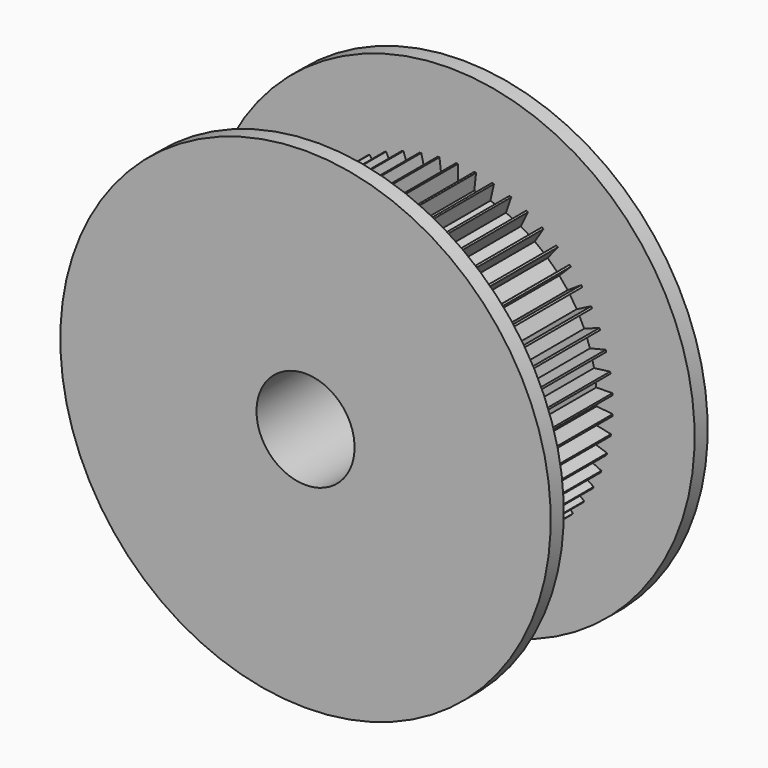
from build123d import *

# Parameters (mm, degrees)
F3_DEPTH = 10
F4_R     = 3
F5_DEPTH = 12


with BuildPart() as f1:
    # F0 (on Right) → F1 (revolve)
    with BuildSketch(Plane.YZ):
        Polygon((-6, -7.5), (6, -7.5), (6, 7.5), (5, 7.5), (5, 2.5), (-5, 2.5), (-5, 7.5), (-6, 7.5), align=None)
    revolve(axis=Axis((0, 0, -7.5), (0, -1, 0)))

    # F2 (on face) → F3 (cut)
    with BuildSketch(Plane(origin=(0, -5, 0), x_dir=(-1, 0, 0), z_dir=(0, 1, 0))):
        with BuildLine():
            ThreePointArc((9.851054434, -9.2195134598), (9.9251701754, -8.7210638759), (9.9740814304, -8.2195134598))
            Line((9.9740814304, -8.2195134598), (8.9814957129, -8.2019506813))
            Line((8.9814957129, -8.2019506813), (8.8838106028, -8.9959642954))
            Line((8.8838106028, -8.9959642954), (9.851054434, -9.2195134598))
        make_face()
        with BuildLine():
            Line((8.995445925, -7.9918867859), (9.9816374951, -8.1057333713))
            ThreePointArc((9.9816374951, -8.1057333713), (9.9994785657, -7.6021196037), (9.9919264475, -7.0982465082))
            Line((9.9919264475, -7.0982465082), (9.0036154933, -7.1919285007))
            Line((9.0036154933, -7.1919285007), (8.995445925, -7.9918867859))
        make_face()
        with BuildLine():
            Line((8.9939582954, -6.9816235147), (9.9866956732, -6.9843358342))
            ThreePointArc((9.9866956732, -6.9843358342), (9.9480377113, -6.4818911181), (9.884117192, -5.9820318399))
            Line((9.884117192, -5.9820318399), (8.9125095849, -6.1857804978))
            Line((8.9125095849, -6.1857804978), (8.9939582954, -6.9816235147))
        make_face()
        with BuildLine():
            Line((8.8793664218, -5.9778791286), (9.8661653587, -5.8694230732))
            ThreePointArc((9.8661653587, -5.8694230732), (9.7714945106, -5.3744659425), (9.6520094279, -4.8849065019))
            Line((9.6520094279, -4.8849065019), (8.7093236972, -5.1961595678))
            Line((8.7093236972, -5.1961595678), (8.8793664218, -5.9778791286))
        make_face()
        with BuildLine():
            Line((8.6531113636, -4.9932762956), (9.6215622904, -4.7750157632))
            ThreePointArc((9.6215622904, -4.7750157632), (9.4720690969, -4.2937705909), (9.298522045, -3.820667482))
            Line((9.298522045, -3.820667482), (8.3966130108, -4.2355107679))
            Line((8.3966130108, -4.2355107679), (8.6531113636, -4.9932762956))
        make_face()
        with BuildLine():
            Line((8.3180384092, -4.0401969677), (9.2559624938, -3.7148767109))
            ThreePointArc((9.2559624938, -3.7148767109), (9.0535269185, -3.2533954344), (8.8281003523, -2.8026982033))
            Line((8.8281003523, -2.8026982033), (7.978310044, -3.3159148142))
            Line((7.978310044, -3.3159148142), (8.3180384092, -4.0401969677))
        make_face()
        with BuildLine():
            Line((7.8783612957, -3.1306266703), (8.7739635984, -2.7023377803))
            ThreePointArc((8.7739635984, -2.7023377803), (8.5211313861, -2.2664237942), (8.2466601755, -1.8438002202))
            Line((8.2466601755, -1.8438002202), (7.4596751992, -2.4489361594))
            Line((7.4596751992, -2.4489361594), (7.8783612957, -3.1306266703))
        make_face()
        with BuildLine():
            Line((7.3396092177, -2.2760037776), (8.1816270199, -1.7501322357))
            ThreePointArc((8.1816270199, -1.7501322357), (7.8815776824, -1.3452674115), (7.5615134622, -0.956032231))
            Line((7.5615134622, -0.956032231), (6.8472306106, -1.645477563))
            Line((6.8472306106, -1.645477563), (7.3396092177, -2.2760037776))
        make_face()
        with BuildLine():
            Line((6.7085572953, -1.4870756685), (7.4864017346, -0.8702346144))
            ThreePointArc((7.4864017346, -0.8702346144), (7.1429085664, -0.5015103621), (6.7812763297, -0.1505584335))
            Line((6.7812763297, -0.1505584335), (6.1486781242, -0.9156429832))
            Line((6.1486781242, -0.9156429832), (6.7085572953, -1.4870756685))
        make_face()
        with BuildLine():
            Line((5.9931413725, -0.7737635717), (6.6970306037, -0.0737101394))
            ThreePointArc((6.6970306037, -0.0737101394), (6.3144132308, 0.2542366195), (5.9157607129, 0.5624918721))
            Line((5.9157607129, 0.5624918721), (5.3728024429, -0.2686105132))
            Line((5.3728024429, -0.2686105132), (5.9931413725, -0.7737635717))
        make_face()
        with BuildLine():
            Line((5.2023582196, -0.1450378006), (5.8234404273, 0.6294244316))
            ThreePointArc((5.8234404273, 0.6294244316), (5.406510485, 0.9124695765), (4.9758509726, 1.1741516645))
            Line((4.9758509726, 1.1741516645), (4.5293606535, 0.2874830382))
            Line((4.5293606535, 0.2874830382), (5.2023582196, -0.1450378006))
        make_face()
        with BuildLine():
            Line((4.3461523936, 0.3911950534), (4.8766171087, 1.2303267737))
            ThreePointArc((4.8766171087, 1.2303267737), (4.430617733, 1.4649108475), (3.9733670194, 1.6767289668))
            Line((3.9733670194, 1.6767289668), (3.6289595258, 0.7456444721))
            Line((3.6289595258, 0.7456444721), (4.3461523936, 0.3911950534))
        make_face()
        with BuildLine():
            Line((3.4352911796, 0.8281915511), (3.8684675005, 1.7214401911))
            ThreePointArc((3.8684675005, 1.7214401911), (3.3990073923, 1.9046131631), (2.9209156704, 2.0639035778))
            Line((2.9209156704, 2.0639035778), (2.6829221266, 1.1001121425))
            Line((2.6829221266, 1.1001121425), (3.4352911796, 0.8281915511))
        make_face()
        with BuildLine():
            Line((2.4812291858, 1.1604562078), (2.8116696689, 2.0965886477))
            ThreePointArc((2.8116696689, 2.0965886477), (2.3246525615, 2.2260470114), (1.8317321122, 2.3308065523))
            Line((1.8317321122, 2.3308065523), (1.7031454249, 1.3464284127))
            Line((1.7031454249, 1.3464284127), (2.4812291858, 1.1604562078))
        make_face()
        with BuildLine():
            Line((1.4959642954, 1.3838106028), (1.7195134598, 2.351054434))
            ThreePointArc((1.7195134598, 2.351054434), (1.2210638759, 2.4251701754), (0.7195134598, 2.4740814304))
            Line((0.7195134598, 2.4740814304), (0.7019506813, 1.4814957129))
            Line((0.7019506813, 1.4814957129), (1.4959642954, 1.3838106028))
        make_face()
        with BuildLine():
            Line((0.4918867859, 1.495445925), (0.6057333713, 2.4816374951))
            ThreePointArc((0.6057333713, 2.4816374951), (0.1021196037, 2.4994785657), (-0.4017534918, 2.4919264475))
            Line((-0.4017534918, 2.4919264475), (-0.3080714993, 1.5036154933))
            Line((-0.3080714993, 1.5036154933), (0.4918867859, 1.495445925))
        make_face()
        with BuildLine():
            Line((-0.5183764853, 1.4939582954), (-0.5156641658, 2.4866956732))
            ThreePointArc((-0.5156641658, 2.4866956732), (-1.0181088819, 2.4480377113), (-1.5179681601, 2.384117192))
            Line((-1.5179681601, 2.384117192), (-1.3142195022, 1.4125095849))
            Line((-1.3142195022, 1.4125095849), (-0.5183764853, 1.4939582954))
        make_face()
        with BuildLine():
            Line((-1.5221208714, 1.3793664218), (-1.6305769268, 2.3661653587))
            ThreePointArc((-1.6305769268, 2.3661653587), (-2.1255340575, 2.2714945106), (-2.6150934981, 2.1520094279))
            Line((-2.6150934981, 2.1520094279), (-2.3038404322, 1.2093236972))
            Line((-2.3038404322, 1.2093236972), (-1.5221208714, 1.3793664218))
        make_face()
        with BuildLine():
            Line((-2.5067237044, 1.1531113636), (-2.7249842368, 2.1215622904))
            ThreePointArc((-2.7249842368, 2.1215622904), (-3.2062294091, 1.9720690969), (-3.679332518, 1.798522045))
            Line((-3.679332518, 1.798522045), (-3.2644892321, 0.8966130108))
            Line((-3.2644892321, 0.8966130108), (-2.5067237044, 1.1531113636))
        make_face()
        with BuildLine():
            Line((-3.4598030323, 0.8180384092), (-3.7851232891, 1.7559624938))
            ThreePointArc((-3.7851232891, 1.7559624938), (-4.2466045656, 1.5535269185), (-4.6973017967, 1.3281003523))
            Line((-4.6973017967, 1.3281003523), (-4.1840851858, 0.478310044))
            Line((-4.1840851858, 0.478310044), (-3.4598030323, 0.8180384092))
        make_face()
        with BuildLine():
            Line((-4.3693733297, 0.3783612957), (-4.7976622197, 1.2739635984))
            ThreePointArc((-4.7976622197, 1.2739635984), (-5.2335762058, 1.0211313861), (-5.6561997798, 0.7466601755))
            Line((-5.6561997798, 0.7466601755), (-5.0510638406, -0.0403248008))
            Line((-5.0510638406, -0.0403248008), (-4.3693733297, 0.3783612957))
        make_face()
        with BuildLine():
            Line((-5.2239962224, -0.1603907823), (-5.7498677643, 0.6816270199))
            ThreePointArc((-5.7498677643, 0.6816270199), (-6.1547325885, 0.3815776824), (-6.543967769, 0.0615134622))
            Line((-6.543967769, 0.0615134622), (-5.854522437, -0.6527693894))
            Line((-5.854522437, -0.6527693894), (-5.2239962224, -0.1603907823))
        make_face()
        with BuildLine():
            Line((-6.0129243315, -0.7914427047), (-6.6297653856, -0.0135982654))
            ThreePointArc((-6.6297653856, -0.0135982654), (-6.9984896379, -0.3570914336), (-7.3494415665, -0.7187236703))
            Line((-7.3494415665, -0.7187236703), (-6.5843570168, -1.3513218758))
            Line((-6.5843570168, -1.3513218758), (-6.0129243315, -0.7914427047))
        make_face()
        with BuildLine():
            Line((-6.7262364283, -1.5068586275), (-7.4262898606, -0.8029693963))
            ThreePointArc((-7.4262898606, -0.8029693963), (-7.7542366195, -1.1855867692), (-8.0624918721, -1.5842392871))
            Line((-8.0624918721, -1.5842392871), (-7.2313894868, -2.1271975571))
            Line((-7.2313894868, -2.1271975571), (-6.7262364283, -1.5068586275))
        make_face()
        with BuildLine():
            Line((-7.3549621994, -2.2976417804), (-8.1294244316, -1.6765595727))
            ThreePointArc((-8.1294244316, -1.6765595727), (-8.4124695765, -2.093489515), (-8.6741516645, -2.5241490274))
            Line((-8.6741516645, -2.5241490274), (-7.7874830382, -2.9706393465))
            Line((-7.7874830382, -2.9706393465), (-7.3549621994, -2.2976417804))
        make_face()
        with BuildLine():
            Line((-7.8911950534, -3.1538476064), (-8.7303267737, -2.6233828913))
            ThreePointArc((-8.7303267737, -2.6233828913), (-8.9649108475, -3.069382267), (-9.1767289668, -3.5266329806))
            Line((-9.1767289668, -3.5266329806), (-8.2456444721, -3.8710404742))
            Line((-8.2456444721, -3.8710404742), (-7.8911950534, -3.1538476064))
        make_face()
        with BuildLine():
            Line((-8.3281915511, -4.0647088204), (-9.2214401911, -3.6315324995))
            ThreePointArc((-9.2214401911, -3.6315324995), (-9.4046131631, -4.1009926077), (-9.5639035778, -4.5790843296))
            Line((-9.5639035778, -4.5790843296), (-8.6001121425, -4.8170778734))
            Line((-8.6001121425, -4.8170778734), (-8.3281915511, -4.0647088204))
        make_face()
        with BuildLine():
            Line((-8.6604562078, -5.0187708142), (-9.5965886477, -4.6883303311))
            ThreePointArc((-9.5965886477, -4.6883303311), (-9.7260470114, -5.1753474385), (-9.8308065523, -5.6682678878))
            Line((-9.8308065523, -5.6682678878), (-8.8464284127, -5.7968545751))
            Line((-8.8464284127, -5.7968545751), (-8.6604562078, -5.0187708142))
        make_face()
        with BuildLine():
            Line((-8.8838106028, -6.0040357046), (-9.851054434, -5.7804865402))
            ThreePointArc((-9.851054434, -5.7804865402), (-9.9251701754, -6.2789361241), (-9.9740814304, -6.7804865402))
            Line((-9.9740814304, -6.7804865402), (-8.9814957129, -6.7980493187))
            Line((-8.9814957129, -6.7980493187), (-8.8838106028, -6.0040357046))
        make_face()
        with BuildLine():
            Line((-8.995445925, -7.0081132141), (-9.9816374951, -6.8942666287))
            ThreePointArc((-9.9816374951, -6.8942666287), (-9.9994785657, -7.3978803963), (-9.9919264475, -7.9017534918))
            Line((-9.9919264475, -7.9017534918), (-9.0036154933, -7.8080714993))
            Line((-9.0036154933, -7.8080714993), (-8.995445925, -7.0081132141))
        make_face()
        with BuildLine():
            Line((-8.9939582954, -8.0183764853), (-9.9866956732, -8.0156641658))
            ThreePointArc((-9.9866956732, -8.0156641658), (-9.9480377113, -8.5181088819), (-9.884117192, -9.0179681601))
            Line((-9.884117192, -9.0179681601), (-8.9125095849, -8.8142195022))
            Line((-8.9125095849, -8.8142195022), (-8.9939582954, -8.0183764853))
        make_face()
        with BuildLine():
            Line((-8.8793664218, -9.0221208714), (-9.8661653587, -9.1305769268))
            ThreePointArc((-9.8661653587, -9.1305769268), (-9.7714945106, -9.6255340575), (-9.6520094279, -10.1150934981))
            Line((-9.6520094279, -10.1150934981), (-8.7093236972, -9.8038404322))
            Line((-8.7093236972, -9.8038404322), (-8.8793664218, -9.0221208714))
        make_face()
        with BuildLine():
            Line((-8.6531113636, -10.0067237044), (-9.6215622904, -10.2249842368))
            ThreePointArc((-9.6215622904, -10.2249842368), (-9.4720690969, -10.7062294091), (-9.298522045, -11.179332518))
            Line((-9.298522045, -11.179332518), (-8.3966130108, -10.7644892321))
            Line((-8.3966130108, -10.7644892321), (-8.6531113636, -10.0067237044))
        make_face()
        with BuildLine():
            Line((-8.3180384092, -10.9598030323), (-9.2559624938, -11.2851232891))
            ThreePointArc((-9.2559624938, -11.2851232891), (-9.0535269185, -11.7466045656), (-8.8281003523, -12.1973017967))
            Line((-8.8281003523, -12.1973017967), (-7.978310044, -11.6840851858))
            Line((-7.978310044, -11.6840851858), (-8.3180384092, -10.9598030323))
        make_face()
        with BuildLine():
            Line((-7.8783612957, -11.8693733297), (-8.7739635984, -12.2976622197))
            ThreePointArc((-8.7739635984, -12.2976622197), (-8.5211313861, -12.7335762058), (-8.2466601755, -13.1561997798))
            Line((-8.2466601755, -13.1561997798), (-7.4596751992, -12.5510638406))
            Line((-7.4596751992, -12.5510638406), (-7.8783612957, -11.8693733297))
        make_face()
        with BuildLine():
            Line((-7.3396092177, -12.7239962224), (-8.1816270199, -13.2498677643))
            ThreePointArc((-8.1816270199, -13.2498677643), (-7.8815776824, -13.6547325885), (-7.5615134622, -14.043967769))
            Line((-7.5615134622, -14.043967769), (-6.8472306106, -13.354522437))
            Line((-6.8472306106, -13.354522437), (-7.3396092177, -12.7239962224))
        make_face()
        with BuildLine():
            Line((-6.7085572953, -13.5129243315), (-7.4864017346, -14.1297653856))
            ThreePointArc((-7.4864017346, -14.1297653856), (-7.1429085664, -14.4984896379), (-6.7812763297, -14.8494415665))
            Line((-6.7812763297, -14.8494415665), (-6.1486781242, -14.0843570168))
            Line((-6.1486781242, -14.0843570168), (-6.7085572953, -13.5129243315))
        make_face()
        with BuildLine():
            Line((-5.9931413725, -14.2262364283), (-6.6970306037, -14.9262898606))
            ThreePointArc((-6.6970306037, -14.9262898606), (-6.3144132308, -15.2542366195), (-5.9157607129, -15.5624918721))
            Line((-5.9157607129, -15.5624918721), (-5.3728024429, -14.7313894868))
            Line((-5.3728024429, -14.7313894868), (-5.9931413725, -14.2262364283))
        make_face()
        with BuildLine():
            Line((-5.2023582196, -14.8549621994), (-5.8234404273, -15.6294244316))
            ThreePointArc((-5.8234404273, -15.6294244316), (-5.406510485, -15.9124695765), (-4.9758509726, -16.1741516645))
            Line((-4.9758509726, -16.1741516645), (-4.5293606535, -15.2874830382))
            Line((-4.5293606535, -15.2874830382), (-5.2023582196, -14.8549621994))
        make_face()
        with BuildLine():
            Line((-4.3461523936, -15.3911950534), (-4.8766171087, -16.2303267737))
            ThreePointArc((-4.8766171087, -16.2303267737), (-4.430617733, -16.4649108475), (-3.9733670194, -16.6767289668))
            Line((-3.9733670194, -16.6767289668), (-3.6289595258, -15.7456444721))
            Line((-3.6289595258, -15.7456444721), (-4.3461523936, -15.3911950534))
        make_face()
        with BuildLine():
            Line((-3.4352911796, -15.8281915511), (-3.8684675005, -16.7214401911))
            ThreePointArc((-3.8684675005, -16.7214401911), (-3.3990073923, -16.9046131631), (-2.9209156704, -17.0639035778))
            Line((-2.9209156704, -17.0639035778), (-2.6829221266, -16.1001121425))
            Line((-2.6829221266, -16.1001121425), (-3.4352911796, -15.8281915511))
        make_face()
        with BuildLine():
            Line((-2.4812291858, -16.1604562078), (-2.8116696689, -17.0965886477))
            ThreePointArc((-2.8116696689, -17.0965886477), (-2.3246525615, -17.2260470114), (-1.8317321122, -17.3308065523))
            Line((-1.8317321122, -17.3308065523), (-1.7031454249, -16.3464284127))
            Line((-1.7031454249, -16.3464284127), (-2.4812291858, -16.1604562078))
        make_face()
        with BuildLine():
            Line((-1.4959642954, -16.3838106028), (-1.7195134598, -17.351054434))
            ThreePointArc((-1.7195134598, -17.351054434), (-1.2210638759, -17.4251701754), (-0.7195134598, -17.4740814304))
            Line((-0.7195134598, -17.4740814304), (-0.7019506813, -16.4814957129))
            Line((-0.7019506813, -16.4814957129), (-1.4959642954, -16.3838106028))
        make_face()
        with BuildLine():
            Line((-0.4918867859, -16.495445925), (-0.6057333713, -17.4816374951))
            ThreePointArc((-0.6057333713, -17.4816374951), (-0.1021196037, -17.4994785657), (0.4017534918, -17.4919264475))
            Line((0.4017534918, -17.4919264475), (0.3080714993, -16.5036154933))
            Line((0.3080714993, -16.5036154933), (-0.4918867859, -16.495445925))
        make_face()
        with BuildLine():
            Line((0.5183764853, -16.4939582954), (0.5156641658, -17.4866956732))
            ThreePointArc((0.5156641658, -17.4866956732), (1.0181088819, -17.4480377113), (1.5179681601, -17.384117192))
            Line((1.5179681601, -17.384117192), (1.3142195022, -16.4125095849))
            Line((1.3142195022, -16.4125095849), (0.5183764853, -16.4939582954))
        make_face()
        with BuildLine():
            Line((1.5221208714, -16.3793664218), (1.6305769268, -17.3661653587))
            ThreePointArc((1.6305769268, -17.3661653587), (2.1255340575, -17.2714945106), (2.6150934981, -17.1520094279))
            Line((2.6150934981, -17.1520094279), (2.3038404322, -16.2093236972))
            Line((2.3038404322, -16.2093236972), (1.5221208714, -16.3793664218))
        make_face()
        with BuildLine():
            Line((2.5067237044, -16.1531113636), (2.7249842368, -17.1215622904))
            ThreePointArc((2.7249842368, -17.1215622904), (3.2062294091, -16.9720690969), (3.679332518, -16.798522045))
            Line((3.679332518, -16.798522045), (3.2644892321, -15.8966130108))
            Line((3.2644892321, -15.8966130108), (2.5067237044, -16.1531113636))
        make_face()
        with BuildLine():
            Line((3.4598030323, -15.8180384092), (3.7851232891, -16.7559624938))
            ThreePointArc((3.7851232891, -16.7559624938), (4.2466045656, -16.5535269185), (4.6973017967, -16.3281003523))
            Line((4.6973017967, -16.3281003523), (4.1840851858, -15.478310044))
            Line((4.1840851858, -15.478310044), (3.4598030323, -15.8180384092))
        make_face()
        with BuildLine():
            Line((4.3693733297, -15.3783612957), (4.7976622197, -16.2739635984))
            ThreePointArc((4.7976622197, -16.2739635984), (5.2335762058, -16.0211313861), (5.6561997798, -15.7466601755))
            Line((5.6561997798, -15.7466601755), (5.0510638406, -14.9596751992))
            Line((5.0510638406, -14.9596751992), (4.3693733297, -15.3783612957))
        make_face()
        with BuildLine():
            Line((5.2239962224, -14.8396092177), (5.7498677643, -15.6816270199))
            ThreePointArc((5.7498677643, -15.6816270199), (6.1547325885, -15.3815776824), (6.543967769, -15.0615134622))
            Line((6.543967769, -15.0615134622), (5.854522437, -14.3472306106))
            Line((5.854522437, -14.3472306106), (5.2239962224, -14.8396092177))
        make_face()
        with BuildLine():
            Line((6.0129243315, -14.2085572953), (6.6297653856, -14.9864017346))
            ThreePointArc((6.6297653856, -14.9864017346), (6.9984896379, -14.6429085664), (7.3494415665, -14.2812763297))
            Line((7.3494415665, -14.2812763297), (6.5843570168, -13.6486781242))
            Line((6.5843570168, -13.6486781242), (6.0129243315, -14.2085572953))
        make_face()
        with BuildLine():
            Line((6.7262364283, -13.4931413725), (7.4262898606, -14.1970306037))
            ThreePointArc((7.4262898606, -14.1970306037), (7.7542366195, -13.8144132308), (8.0624918721, -13.4157607129))
            Line((8.0624918721, -13.4157607129), (7.2313894868, -12.8728024429))
            Line((7.2313894868, -12.8728024429), (6.7262364283, -13.4931413725))
        make_face()
        with BuildLine():
            Line((7.3549621994, -12.7023582196), (8.1294244316, -13.3234404273))
            ThreePointArc((8.1294244316, -13.3234404273), (8.4124695765, -12.906510485), (8.6741516645, -12.4758509726))
            Line((8.6741516645, -12.4758509726), (7.7874830382, -12.0293606535))
            Line((7.7874830382, -12.0293606535), (7.3549621994, -12.7023582196))
        make_face()
        with BuildLine():
            Line((7.8911950534, -11.8461523936), (8.7303267737, -12.3766171087))
            ThreePointArc((8.7303267737, -12.3766171087), (8.9649108475, -11.930617733), (9.1767289668, -11.4733670194))
            Line((9.1767289668, -11.4733670194), (8.2456444721, -11.1289595258))
            Line((8.2456444721, -11.1289595258), (7.8911950534, -11.8461523936))
        make_face()
        with BuildLine():
            Line((8.3281915511, -10.9352911796), (9.2214401911, -11.3684675005))
            ThreePointArc((9.2214401911, -11.3684675005), (9.4046131631, -10.8990073923), (9.5639035778, -10.4209156704))
            Line((9.5639035778, -10.4209156704), (8.6001121425, -10.1829221266))
            Line((8.6001121425, -10.1829221266), (8.3281915511, -10.9352911796))
        make_face()
        with BuildLine():
            Line((8.6604562078, -9.9812291858), (9.5965886477, -10.3116696689))
            ThreePointArc((9.5965886477, -10.3116696689), (9.7260470114, -9.8246525615), (9.8308065523, -9.3317321122))
            Line((9.8308065523, -9.3317321122), (8.8464284127, -9.2031454249))
            Line((8.8464284127, -9.2031454249), (8.6604562078, -9.9812291858))
        make_face()
    extrude(amount=F3_DEPTH, mode=Mode.SUBTRACT)

    # F4 (on face) → F5 (cut)
    with BuildSketch(Plane(origin=(0, 6, 0), x_dir=(-1, 0, 0), z_dir=(0, 1, 0))):
        with Locations((0, -7.5)):
            Circle(F4_R)
    extrude(amount=-F5_DEPTH, mode=Mode.SUBTRACT)


solid = f1.part
